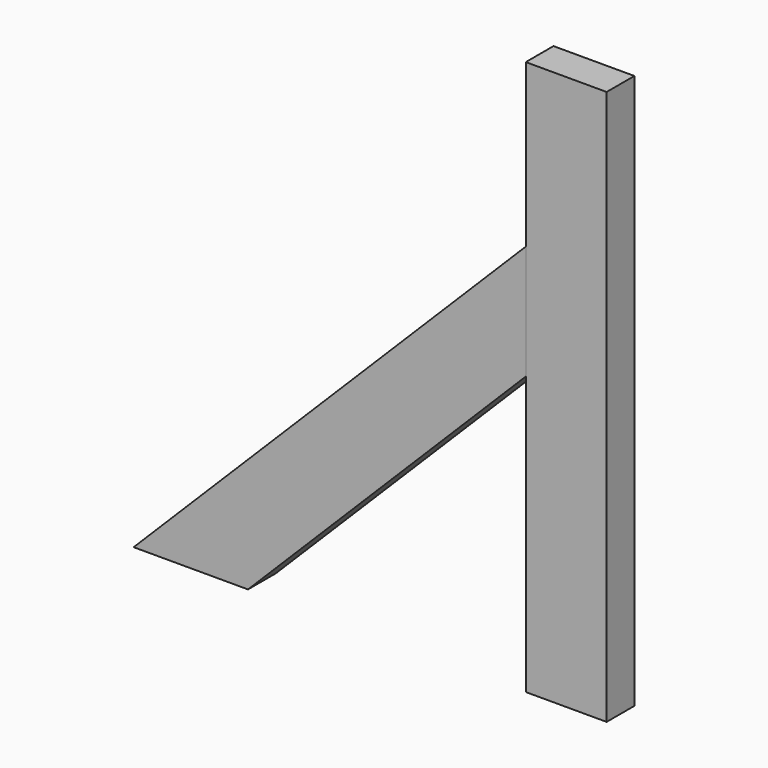
from build123d import *

# Parameters (mm, degrees)
F0_W     = 88.9
F0_H     = 609.6
F1_DEPTH = 19.05
F3_DEPTH = 19.05


with BuildPart() as f1:
    # F0 (on Front) → F1 (new body, symmetric)
    with BuildSketch(Plane.XZ):
        with Locations((44.45, 304.8)):
            Rectangle(F0_W, F0_H)
    extrude(amount=F1_DEPTH, both=True)


with BuildPart() as f3:
    # F2 (on Front) → F3 (new body, symmetric)
    with BuildSketch(Plane.XZ):
        Polygon((0, 305.328708), (0, 431.052294), (-431.052294, 0), (-305.328708, 0), align=None)
    extrude(amount=F3_DEPTH, both=True)


solid = Compound([f1.part, f3.part])
